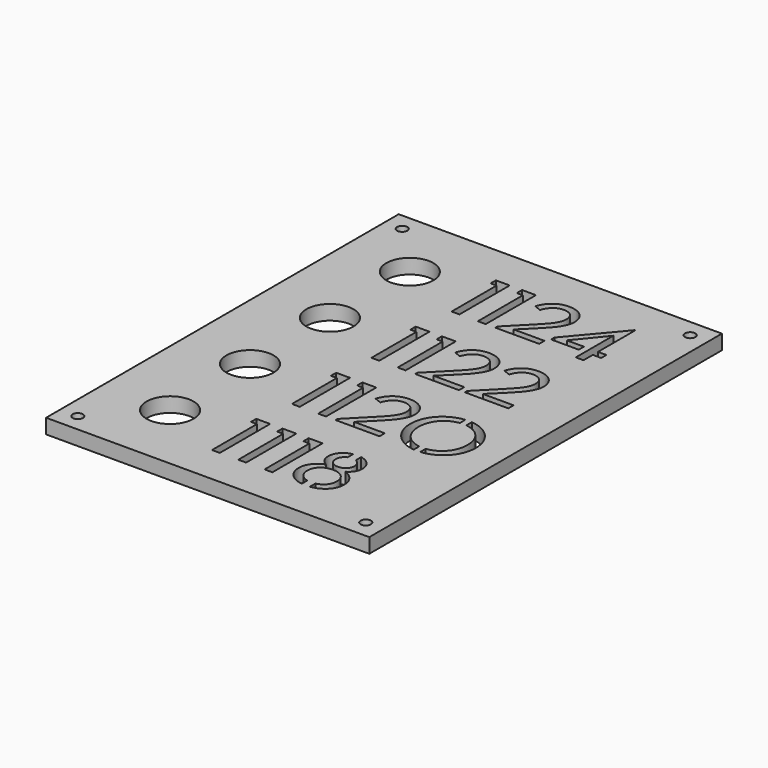
from build123d import *

# Parameters (mm, degrees)
F0_R     = 8
F0_R_2   = 1.75
F1_DEPTH = 5


with BuildPart() as f1:
    # F0 (on Top) → F1 (new body)
    with BuildSketch(Plane.XY):
        Polygon((-41.0277556628, 74.3136635489), (-57.9327552766, 74.3136635489), (-57.9327552766, 53.1228711149), (-57.9327552766, 39.3136635489), (52.0672447234, 39.3136635489), (52.0672447234, 53.1228711149), (52.0672447234, 74.3136635489), align=None)
        with Locations((-34.9327552766, 50.3136635489)):
            Circle(F0_R, mode=Mode.SUBTRACT)
        with Locations((-51.9327552766, 68.3136635489)):
            Circle(F0_R_2, mode=Mode.SUBTRACT)
        Polygon((-11.9546800513, 58.4786828136), (-13.9885088513, 58.4786828136), (-13.9885088513, 60.7280560136), (-9.2887722513, 60.7280560136), (-9.2887722513, 39.3601790136), (-11.9546800513, 39.3601790136), align=None, mode=Mode.SUBTRACT)
        Polygon((-3.0215508513, 58.4786828136), (-5.0721944513, 58.4786828136), (-5.0721944513, 60.7280560136), (-0.3556430513, 60.7280560136), (-0.3556430513, 39.3601790136), (-3.0215508513, 39.3601790136), align=None, mode=Mode.SUBTRACT)
        with BuildLine():
            Line((5.8434809487, 54.7302270136), (3.5107957487, 55.6045966136))
            add(Edge.make_bspline(
                [(10.6750689487, 61.0614056136), (7.3430461487, 61.0614056136), (4.5938263487, 59.1036244136), (3.5107957487, 55.6045966136)],
                knots=[0, 0, 0, 0, 1, 1, 1, 1], degree=3))
            add(Edge.make_bspline(
                [(17.3811515487, 54.8548140136), (17.3811515487, 58.8953444136), (14.3823767487, 61.0614056136), (10.6750689487, 61.0614056136)],
                knots=[0, 0, 0, 0, 1, 1, 1, 1], degree=3))
            add(Edge.make_bspline(
                [(11.7997555487, 45.9830512136), (14.5069637487, 48.6489844136), (17.3811515487, 51.7727272136), (17.3811515487, 54.8548140136)],
                knots=[0, 0, 0, 0, 1, 1, 1, 1], degree=3))
            Line((11.7997555487, 45.9830512136), (7.3847021487, 41.6096538136))
            Line((7.3847021487, 41.6096538136), (17.8393675487, 41.6096538136))
            Line((17.8393675487, 41.6096538136), (17.8393675487, 39.3602806136))
            Line((17.8393675487, 39.3602806136), (2.9085109487, 39.3602806136))
            Line((2.9085109487, 39.3602806136), (2.9085109487, 40.2270048136))
            Line((2.9085109487, 40.2270048136), (9.7586623487, 47.1910498136))
            add(Edge.make_bspline(
                [(14.6739687487, 54.8548140136), (14.6739687487, 52.1059498136), (12.2163155487, 49.6899780136), (9.7586623487, 47.1910498136)],
                knots=[0, 0, 0, 0, 1, 1, 1, 1], degree=3))
            add(Edge.make_bspline(
                [(10.6750689487, 58.7287204136), (12.8827861487, 58.7287204136), (14.6739687487, 57.5623778136), (14.6739687487, 54.8548140136)],
                knots=[0, 0, 0, 0, 1, 1, 1, 1], degree=3))
            add(Edge.make_bspline(
                [(5.8434809487, 54.7302270136), (6.5516075487, 57.1458432136), (8.3427901487, 58.7287204136), (10.6750689487, 58.7287204136)],
                knots=[0, 0, 0, 0, 1, 1, 1, 1], degree=3))
        make_face(mode=Mode.SUBTRACT)
        Polygon((32.9179759487, 61.3529214136), (32.9179759487, 45.5247844136), (35.7921891487, 45.5247844136), (35.7921891487, 43.3174482136), (32.9179759487, 43.3174482136), (32.9179759487, 39.3602044136), (30.2937241487, 39.3602044136), (30.2937241487, 55.3133094136), (22.2967119487, 45.5247844136), (28.1337589487, 45.5247844136), (28.1337589487, 43.3174482136), (18.7143721487, 43.3174482136), (18.7143721487, 44.7333204136), (32.7097213487, 61.3529214136), align=None, mode=Mode.SUBTRACT)
        with Locations((46.0672447234, 68.3136635489)):
            Circle(F0_R_2, mode=Mode.SUBTRACT)
        with BuildLine():
            Line((52.0672447234, 39.3136635489), (-57.9327552766, 39.3136635489))
            Line((-57.9327552766, 39.3136635489), (-57.9327552766, 5.3136635489))
            Line((-57.9327552766, 5.3136635489), (-11.9535818703, 5.3136635489))
            Line((-11.9535818703, 5.3136635489), (-11.9535818703, 24.3711000601))
            Line((-11.9535818703, 24.3711000601), (-13.9874106703, 24.3711000601))
            Line((-13.9874106703, 24.3711000601), (-13.9874106703, 26.6204732601))
            Line((-13.9874106703, 26.6204732601), (-9.2876486703, 26.6204732601))
            Line((-9.2876486703, 26.6204732601), (-9.2876486703, 5.3136635489))
            Line((-9.2876486703, 5.3136635489), (-3.0208590703, 5.3136635489))
            Line((-3.0208590703, 5.3136635489), (-3.0208590703, 24.3711000601))
            Line((-3.0208590703, 24.3711000601), (-5.0715026703, 24.3711000601))
            Line((-5.0715026703, 24.3711000601), (-5.0715026703, 26.6204732601))
            Line((-5.0715026703, 26.6204732601), (-0.3549258703, 26.6204732601))
            Line((-0.3549258703, 26.6204732601), (-0.3549258703, 5.3136635489))
            Line((-0.3549258703, 5.3136635489), (2.9095329297, 5.3136635489))
            Line((2.9095329297, 5.3136635489), (2.9095329297, 6.1189648601))
            Line((2.9095329297, 6.1189648601), (9.7596843297, 13.0830098601))
            add(Edge.make_bspline(
                [(14.6749907297, 20.7467740601), (14.6749907297, 17.9979098601), (12.2173375297, 15.5819126601), (9.7596843297, 13.0830098601)],
                knots=[0, 0, 0, 0, 1, 1, 1, 1], degree=3))
            add(Edge.make_bspline(
                [(10.6760909297, 24.6206804601), (12.8838081297, 24.6206804601), (14.6749907297, 23.4543378601), (14.6749907297, 20.7467740601)],
                knots=[0, 0, 0, 0, 1, 1, 1, 1], degree=3))
            add(Edge.make_bspline(
                [(5.8445029297, 20.6221870601), (6.5526295297, 23.0377778601), (8.3438121297, 24.6206804601), (10.6760909297, 24.6206804601)],
                knots=[0, 0, 0, 0, 1, 1, 1, 1], degree=3))
            Line((5.8445029297, 20.6221870601), (3.5118177297, 21.4965566601))
            add(Edge.make_bspline(
                [(10.6760909297, 26.9533656601), (7.3440681297, 26.9533656601), (4.5948483297, 24.9955844601), (3.5118177297, 21.4965566601)],
                knots=[0, 0, 0, 0, 1, 1, 1, 1], degree=3))
            add(Edge.make_bspline(
                [(17.3821735297, 20.7467740601), (17.3821735297, 24.7873044601), (14.3833987297, 26.9533656601), (10.6760909297, 26.9533656601)],
                knots=[0, 0, 0, 0, 1, 1, 1, 1], degree=3))
            add(Edge.make_bspline(
                [(11.8007775297, 11.8750112601), (14.5079857297, 14.5409190601), (17.3821735297, 17.6646618601), (17.3821735297, 20.7467740601)],
                knots=[0, 0, 0, 0, 1, 1, 1, 1], degree=3))
            Line((11.8007775297, 11.8750112601), (7.3857241297, 7.5016138601))
            Line((7.3857241297, 7.5016138601), (17.8403895297, 7.5016138601))
            Line((17.8403895297, 7.5016138601), (17.8403895297, 5.3136635489))
            Line((17.8403895297, 5.3136635489), (19.8384043297, 5.3136635489))
            Line((19.8384043297, 5.3136635489), (19.8384043297, 6.2682660601))
            Line((19.8384043297, 6.2682660601), (26.5414389297, 13.0828828601))
            add(Edge.make_bspline(
                [(31.4567199297, 20.7470280601), (31.4567199297, 17.9978082601), (28.9990667297, 15.5821920601), (26.5414389297, 13.0828828601)],
                knots=[0, 0, 0, 0, 1, 1, 1, 1], degree=3))
            add(Edge.make_bspline(
                [(27.4578455297, 24.6205534601), (29.6655627297, 24.6205534601), (31.4567199297, 23.4546172601), (31.4567199297, 20.7470280601)],
                knots=[0, 0, 0, 0, 1, 1, 1, 1], degree=3))
            add(Edge.make_bspline(
                [(22.6262321297, 20.6220600601), (23.3343841297, 23.0376762601), (25.1255413297, 24.6205534601), (27.4578455297, 24.6205534601)],
                knots=[0, 0, 0, 0, 1, 1, 1, 1], degree=3))
            Line((22.6262321297, 20.6220600601), (20.2935469297, 21.4968106601))
            add(Edge.make_bspline(
                [(27.4578455297, 26.9532386601), (24.1258227297, 26.9532386601), (21.3765775297, 24.9954574601), (20.2935469297, 21.4968106601)],
                knots=[0, 0, 0, 0, 1, 1, 1, 1], degree=3))
            add(Edge.make_bspline(
                [(34.1639281297, 20.7470280601), (34.1639281297, 24.7871774601), (31.1651279297, 26.9532386601), (27.4578455297, 26.9532386601)],
                knots=[0, 0, 0, 0, 1, 1, 1, 1], degree=3))
            add(Edge.make_bspline(
                [(28.5825321297, 11.8748842601), (31.2900959297, 14.5408174601), (34.1639281297, 17.6645602601), (34.1639281297, 20.7470280601)],
                knots=[0, 0, 0, 0, 1, 1, 1, 1], degree=3))
            Line((28.5825321297, 11.8748842601), (24.1674787297, 7.5014868601))
            Line((24.1674787297, 7.5014868601), (34.6221187297, 7.5014868601))
            Line((34.6221187297, 7.5014868601), (34.6221187297, 5.3136635489))
            Line((34.6221187297, 5.3136635489), (52.0672447234, 5.3136635489))
            Line((52.0672447234, 5.3136635489), (52.0672447234, 39.3136635489))
        make_face()
        with Locations((-34.9327552766, 16.3136635489)):
            Circle(F0_R, mode=Mode.SUBTRACT)
        with BuildLine():
            Line((-11.9535818703, 5.3136635489), (-57.9327552766, 5.3136635489))
            Line((-57.9327552766, 5.3136635489), (-57.9327552766, -28.6863364511))
            Line((-57.9327552766, -28.6863364511), (28.2507873932, -28.6863364511))
            add(Edge.make_bspline(
                [(19.8403648937, -17.9763494603), (19.8403648937, -23.2956080535), (23.4754618718, -27.5123763983), (28.2507873932, -28.6863364511)],
                knots=[0, 0, 0, 0, 0.9032470268, 0.9032470268, 0.9032470268, 0.9032470268], degree=3))
            add(Edge.make_bspline(
                [(29.8215234937, -7.0363662603), (24.2959312937, -7.5805612603), (19.8403648937, -12.0479640603), (19.8403648937, -17.9763494603)],
                knots=[0, 0, 0, 0, 1, 1, 1, 1], degree=3))
            Line((29.8215234937, -7.0363662603), (29.8215234937, -9.3908446603))
            add(Edge.make_bspline(
                [(22.6308596937, -17.9763494603), (22.6308596937, -13.3083120603), (25.6223954937, -9.9140084603), (29.8215234937, -9.3908446603)],
                knots=[0, 0, 0, 0, 1, 1, 1, 1], degree=3))
            add(Edge.make_bspline(
                [(29.8215234937, -26.6012496603), (25.6223954937, -26.0669860603), (22.6308596937, -22.6058042603), (22.6308596937, -17.9763494603)],
                knots=[0, 0, 0, 0, 1, 1, 1, 1], degree=3))
            Line((29.8215234937, -26.6012496603), (29.8215234937, -28.6863364511))
            Line((29.8215234937, -28.6863364511), (32.0146864937, -28.6863364511))
            Line((32.0146864937, -28.6863364511), (32.0146864937, -26.6154482603))
            add(Edge.make_bspline(
                [(39.3341282937, -17.9760446603), (39.3341282937, -22.6410340603), (36.2978884937, -26.1224850603), (32.0146864937, -26.6154482603)],
                knots=[0, 0, 0, 0, 1, 1, 1, 1], degree=3))
            add(Edge.make_bspline(
                [(32.0146864937, -9.3771540603), (36.2978884937, -9.8598302603), (39.3341282937, -13.2724726603), (39.3341282937, -17.9760446603)],
                knots=[0, 0, 0, 0, 1, 1, 1, 1], degree=3))
            Line((32.0146864937, -9.3771540603), (32.0146864937, -7.0284160603))
            add(Edge.make_bspline(
                [(42.1242420937, -17.9760446603), (42.1242420937, -12.0144106603), (37.6182312937, -7.5313360603), (32.0146864937, -7.0284160603)],
                knots=[0, 0, 0, 0, 1, 1, 1, 1], degree=3))
            add(Edge.make_bspline(
                [(33.6845991821, -28.6863364511), (38.4870942638, -27.513614006), (42.1242420937, -23.2971508626), (42.1242420937, -17.9760446603)],
                knots=[0.1015697577, 0.1015697577, 0.1015697577, 0.1015697577, 1, 1, 1, 1], degree=3))
            Line((33.6845991821, -28.6863364511), (52.0672447234, -28.6863364511))
            Line((52.0672447234, -28.6863364511), (52.0672447234, 5.3136635489))
            Line((52.0672447234, 5.3136635489), (34.6221187297, 5.3136635489))
            Line((34.6221187297, 5.3136635489), (34.6221187297, 5.2521136601))
            Line((34.6221187297, 5.2521136601), (19.8384043297, 5.2521136601))
            Line((19.8384043297, 5.2521136601), (19.8384043297, 5.3136635489))
            Line((19.8384043297, 5.3136635489), (17.8403895297, 5.3136635489))
            Line((17.8403895297, 5.3136635489), (17.8403895297, 5.2522406601))
            Line((17.8403895297, 5.2522406601), (2.9095329297, 5.2522406601))
            Line((2.9095329297, 5.2522406601), (2.9095329297, 5.3136635489))
            Line((2.9095329297, 5.3136635489), (-0.3549258703, 5.3136635489))
            Line((-0.3549258703, 5.3136635489), (-0.3549258703, 5.2525962601))
            Line((-0.3549258703, 5.2525962601), (-3.0208590703, 5.2525962601))
            Line((-3.0208590703, 5.2525962601), (-3.0208590703, 5.3136635489))
            Line((-3.0208590703, 5.3136635489), (-9.2876486703, 5.3136635489))
            Line((-9.2876486703, 5.3136635489), (-9.2876486703, 5.2525962601))
            Line((-9.2876486703, 5.2525962601), (-11.9535818703, 5.2525962601))
            Line((-11.9535818703, 5.2525962601), (-11.9535818703, 5.3136635489))
        make_face()
        with Locations((-34.9327552766, -17.6863364511)):
            Circle(F0_R, mode=Mode.SUBTRACT)
        Polygon((-11.8704175063, -9.5623962603), (-13.9042463063, -9.5623962603), (-13.9042463063, -7.3130230603), (-9.2045097063, -7.3130230603), (-9.2045097063, -28.6805190603), (-11.8704175063, -28.6805190603), align=None, mode=Mode.SUBTRACT)
        Polygon((-2.9372883063, -9.5623962603), (-4.9879319063, -9.5623962603), (-4.9879319063, -7.3130230603), (-0.2713805063, -7.3130230603), (-0.2713805063, -28.6805190603), (-2.9372883063, -28.6805190603), align=None, mode=Mode.SUBTRACT)
        with BuildLine():
            Line((5.9277434937, -13.3108774603), (3.5950582937, -12.4365078603))
            add(Edge.make_bspline(
                [(10.7593314937, -6.9796988603), (7.4273086937, -6.9796988603), (4.6780888937, -8.9374800603), (3.5950582937, -12.4365078603)],
                knots=[0, 0, 0, 0, 1, 1, 1, 1], degree=3))
            add(Edge.make_bspline(
                [(17.4654140937, -13.1862904603), (17.4654140937, -9.1457600603), (14.4666392937, -6.9796988603), (10.7593314937, -6.9796988603)],
                knots=[0, 0, 0, 0, 1, 1, 1, 1], degree=3))
            add(Edge.make_bspline(
                [(11.8840180937, -22.0580532603), (14.5912262937, -19.3921200603), (17.4654140937, -16.2683772603), (17.4654140937, -13.1862904603)],
                knots=[0, 0, 0, 0, 1, 1, 1, 1], degree=3))
            Line((11.8840180937, -22.0580532603), (7.4689646937, -26.4314506603))
            Line((7.4689646937, -26.4314506603), (17.9236300937, -26.4314506603))
            Line((17.9236300937, -26.4314506603), (17.9236300937, -28.6808238603))
            Line((17.9236300937, -28.6808238603), (2.9927734937, -28.6808238603))
            Line((2.9927734937, -28.6808238603), (2.9927734937, -27.8140996603))
            Line((2.9927734937, -27.8140996603), (9.8429248937, -20.8500546603))
            add(Edge.make_bspline(
                [(14.7582312937, -13.1862904603), (14.7582312937, -15.9351546603), (12.3005780937, -18.3511264603), (9.8429248937, -20.8500546603)],
                knots=[0, 0, 0, 0, 1, 1, 1, 1], degree=3))
            add(Edge.make_bspline(
                [(10.7593314937, -9.3123840603), (12.9670486937, -9.3123840603), (14.7582312937, -10.4787266603), (14.7582312937, -13.1862904603)],
                knots=[0, 0, 0, 0, 1, 1, 1, 1], degree=3))
            add(Edge.make_bspline(
                [(5.9277434937, -13.3108774603), (6.6358700937, -10.8952612603), (8.4270526937, -9.3123840603), (10.7593314937, -9.3123840603)],
                knots=[0, 0, 0, 0, 1, 1, 1, 1], degree=3))
        make_face(mode=Mode.SUBTRACT)
        with BuildLine():
            Line((28.2507873932, -28.6863364511), (-57.9327552766, -28.6863364511))
            Line((-57.9327552766, -28.6863364511), (-57.9327552766, -75.6863364511))
            Line((-57.9327552766, -75.6863364511), (52.0672447234, -75.6863364511))
            Line((52.0672447234, -75.6863364511), (52.0672447234, -28.6863364511))
            Line((52.0672447234, -28.6863364511), (33.6845991821, -28.6863364511))
            add(Edge.make_bspline(
                [(32.0146864937, -28.9645672603), (32.5838371815, -28.912593162), (33.1416652524, -28.8189156198), (33.6845991821, -28.6863364511)],
                knots=[0, 0, 0, 0, 0.1015697577, 0.1015697577, 0.1015697577, 0.1015697577], degree=3))
            Line((32.0146864937, -28.9645672603), (32.0146864937, -28.6863364511))
            Line((32.0146864937, -28.6863364511), (29.8215234937, -28.6863364511))
            Line((29.8215234937, -28.6863364511), (29.8215234937, -28.9564646603))
            add(Edge.make_bspline(
                [(28.2507873932, -28.6863364511), (28.7623052045, -28.81208735), (29.2869060196, -28.9029250093), (29.8215234937, -28.9564646603)],
                knots=[0.9032470268, 0.9032470268, 0.9032470268, 0.9032470268, 1, 1, 1, 1], degree=3))
        make_face()
        with Locations((-51.9327552766, -69.6863364511)):
            Circle(F0_R_2, mode=Mode.SUBTRACT)
        with Locations((-34.9327552766, -51.6863364511)):
            Circle(F0_R, mode=Mode.SUBTRACT)
        Polygon((-11.8855267017, -43.5375901498), (-13.9193555017, -43.5375901498), (-13.9193555017, -41.2882169498), (-9.2196189017, -41.2882169498), (-9.2196189017, -62.6557129498), (-11.8855267017, -62.6557129498), align=None, mode=Mode.SUBTRACT)
        Polygon((-2.9523975017, -43.5375901498), (-5.0030411017, -43.5375901498), (-5.0030411017, -41.2882169498), (-0.2864897017, -41.2882169498), (-0.2864897017, -62.6557129498), (-2.9523975017, -62.6557129498), align=None, mode=Mode.SUBTRACT)
        Polygon((5.9807316983, -43.5375901498), (3.9132732983, -43.5375901498), (3.9132732983, -41.2882169498), (8.6466648983, -41.2882169498), (8.6466648983, -62.6557129498), (5.9807316983, -62.6557129498), align=None, mode=Mode.SUBTRACT)
        with BuildLine():
            Line((21.6217722983, -43.4053323498), (21.6217722983, -41.0818165498))
            add(Edge.make_bspline(
                [(26.0998684983, -46.1197795498), (26.0998684983, -43.7034013498), (24.3801868983, -41.6026943498), (21.6217722983, -41.0818165498)],
                knots=[0, 0, 0, 0, 1, 1, 1, 1], degree=3))
            add(Edge.make_bspline(
                [(23.6005846983, -50.2436219498), (25.0581128983, -49.4101463498), (26.0998684983, -48.0359047498), (26.0998684983, -46.1197795498)],
                knots=[0, 0, 0, 0, 1, 1, 1, 1], degree=3))
            add(Edge.make_bspline(
                [(28.0156380983, -56.2411969498), (28.0156380983, -53.4090207498), (26.2244554983, -51.2429595498), (23.6005846983, -50.2436219498)],
                knots=[0, 0, 0, 0, 1, 1, 1, 1], degree=3))
            add(Edge.make_bspline(
                [(21.6217722983, -62.8949047498), (25.5174718983, -62.3854823498), (28.0156380983, -59.6878499498), (28.0156380983, -56.2411969498)],
                knots=[0, 0, 0, 0, 1, 1, 1, 1], degree=3))
            Line((21.6217722983, -62.8949047498), (21.6217722983, -60.5484781498))
            add(Edge.make_bspline(
                [(25.3084298983, -56.0329169498), (25.3084298983, -58.3090363498), (23.8627380983, -60.0497491498), (21.6217722983, -60.5484781498)],
                knots=[0, 0, 0, 0, 1, 1, 1, 1], degree=3))
            add(Edge.make_bspline(
                [(20.2681808983, -51.4512395498), (23.3506486983, -51.4512395498), (25.3084298983, -53.3673647498), (25.3084298983, -56.0329169498)],
                knots=[0, 0, 0, 0, 1, 1, 1, 1], degree=3))
            add(Edge.make_bspline(
                [(15.2699434983, -56.0329169498), (15.2699434983, -53.3673647498), (17.2277500983, -51.4512395498), (20.2681808983, -51.4512395498)],
                knots=[0, 0, 0, 0, 1, 1, 1, 1], degree=3))
            add(Edge.make_bspline(
                [(18.8625956983, -60.5335683498), (16.6850790983, -60.0142145498), (15.2699434983, -58.2853381498), (15.2699434983, -56.0329169498)],
                knots=[0, 0, 0, 0, 1, 1, 1, 1], degree=3))
            Line((18.8625956983, -60.5335683498), (18.8625956983, -62.8876403498))
            add(Edge.make_bspline(
                [(12.5207236983, -56.2411969498), (12.5207236983, -59.6695111498), (15.0253668983, -62.3575931498), (18.8625956983, -62.8876403498)],
                knots=[0, 0, 0, 0, 1, 1, 1, 1], degree=3))
            add(Edge.make_bspline(
                [(16.9361580983, -50.2436219498), (14.3118808983, -51.2429595498), (12.5207236983, -53.4090207498), (12.5207236983, -56.2411969498)],
                knots=[0, 0, 0, 0, 1, 1, 1, 1], degree=3))
            add(Edge.make_bspline(
                [(14.4368488983, -46.1197795498), (14.4368488983, -48.0359047498), (15.4782234983, -49.4101463498), (16.9361580983, -50.2436219498)],
                knots=[0, 0, 0, 0, 1, 1, 1, 1], degree=3))
            add(Edge.make_bspline(
                [(18.8625956983, -41.0932719498), (16.1351690983, -41.6313455498), (14.4368488983, -43.7190731498), (14.4368488983, -46.1197795498)],
                knots=[0, 0, 0, 0, 1, 1, 1, 1], degree=3))
            Line((18.8625956983, -41.0932719498), (18.8625956983, -43.4355075498))
            add(Edge.make_bspline(
                [(17.0611260983, -46.2447475498), (17.0611260983, -44.9163783498), (17.7635122983, -43.8971525498), (18.8625956983, -43.4355075498)],
                knots=[0, 0, 0, 0, 1, 1, 1, 1], degree=3))
            add(Edge.make_bspline(
                [(20.2681808983, -49.2855593498), (18.3524366983, -49.2855593498), (17.0611260983, -48.0359047498), (17.0611260983, -46.2447475498)],
                knots=[0, 0, 0, 0, 1, 1, 1, 1], degree=3))
            add(Edge.make_bspline(
                [(23.4756166983, -46.2447475498), (23.4756166983, -48.0359047498), (22.2259620983, -49.2855593498), (20.2681808983, -49.2855593498)],
                knots=[0, 0, 0, 0, 1, 1, 1, 1], degree=3))
            add(Edge.make_bspline(
                [(21.6217722983, -43.4053323498), (22.7667026983, -43.8524485498), (23.4756166983, -44.8880827498), (23.4756166983, -46.2447475498)],
                knots=[0, 0, 0, 0, 1, 1, 1, 1], degree=3))
        make_face(mode=Mode.SUBTRACT)
        with Locations((46.0672447234, -69.6863364511)):
            Circle(F0_R_2, mode=Mode.SUBTRACT)
    extrude(amount=F1_DEPTH)


solid = f1.part
